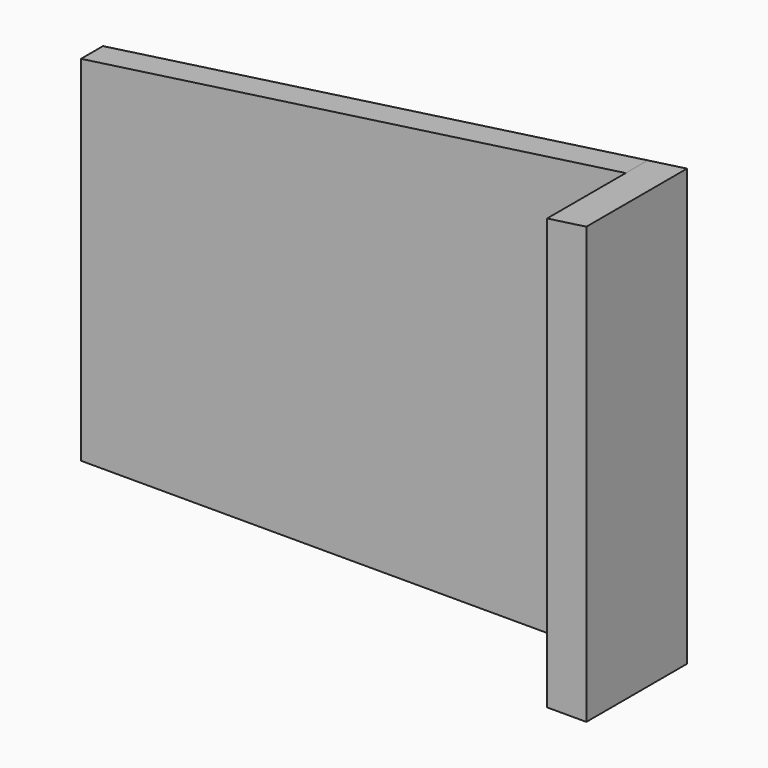
from build123d import *

# Parameters (mm, degrees)
F1_DEPTH = 7
F3_DEPTH = 32


with BuildPart() as f1:
    # F0 (on Front) → F1 (new body)
    with BuildSketch(Plane.XZ):
        Polygon((0, 90), (0, 0), (148.54021, 0), (148.54021, 110.875965), align=None)
    extrude(amount=F1_DEPTH)

    # F2 (on face) → F3 (join)
    with BuildSketch(Plane(origin=(0, 0, 0), x_dir=(-1, 0, 0), z_dir=(0, 1, 0))):
        Polygon((-138.54021, 109.470557), (-148.54021, 110.875965), (-148.54021, 0), (-138.54021, 0), align=None)
    extrude(amount=-F3_DEPTH)


solid = f1.part
